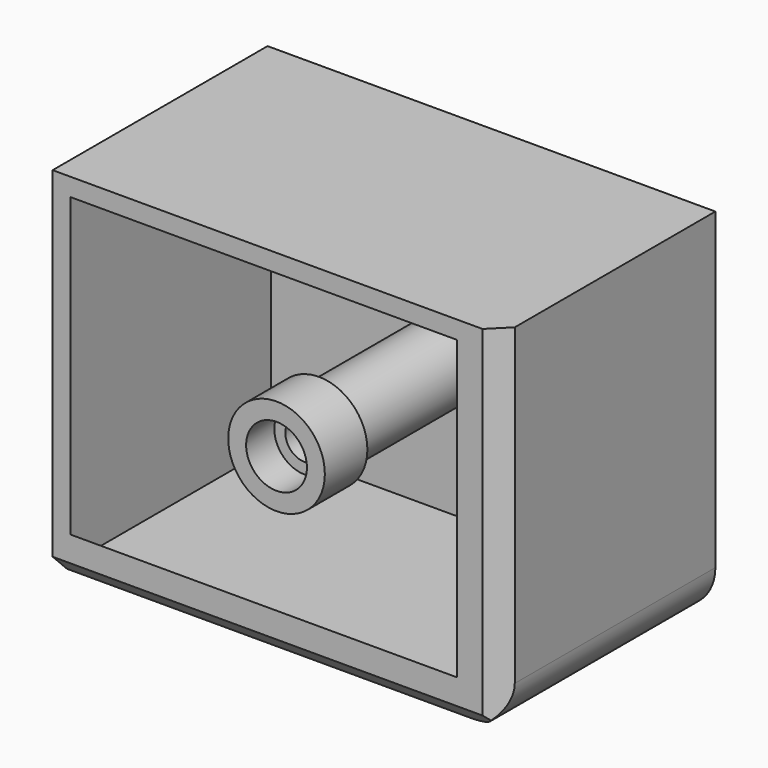
from build123d import *

# Parameters (mm, degrees)
F0_W           = 127
F0_H           = 101.6
F1_DEPTH       = 76.2
F3_D           = 11
F3_CBORE_D     = 17.25
F3_CBORE_DEPTH = 10
F4_SIZE        = 5.08
F5_R           = 12.7
F6_T           = -5.08


with BuildPart() as f1:
    # F0 (on Front) → F1 (new body)
    with BuildSketch(Plane.XZ):
        with Locations((38.1, -25.4)):
            Rectangle(F0_W, F0_H)
    extrude(amount=F1_DEPTH)

    # F3 (through all)
    with Locations(Plane.XZ.offset(76.2)):
        with Locations((38.1, -25.4)):
            CounterBoreHole(F3_D / 2, F3_CBORE_D / 2, F3_CBORE_DEPTH)

    # F4
    f4_edges = [f1.edges().sort_by_distance(p)[0] for p in [
        (38.1, -76.2, -76.2),
        (101.6, -76.2, -25.4),
    ]]
    chamfer(f4_edges, length=F4_SIZE)

    # F5
    f5_edges = [f1.edges().sort_by_distance(p)[0] for p in [
        (101.6, -35.56, -76.2),
    ]]
    fillet(f5_edges, radius=F5_R)

    # F6
    f6_openings = [f1.faces().sort_by_distance(p)[0] for p in [
        (35.56, -76.2, 23.844989),
    ]]
    offset(amount=F6_T, openings=f6_openings, kind=Kind.INTERSECTION)


solid = f1.part
